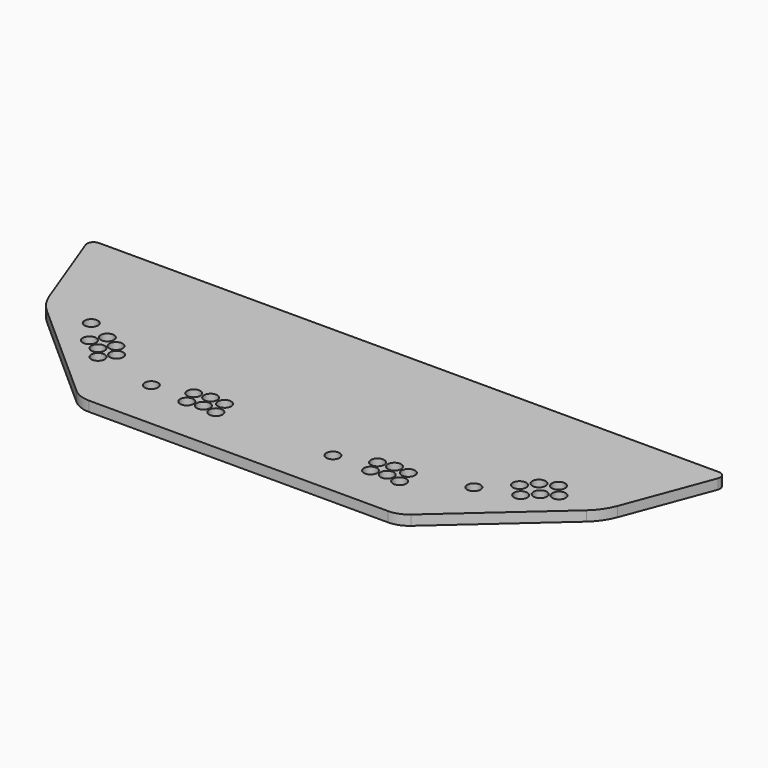
from build123d import *

# Parameters (mm, degrees)
F0_R     = 12.7
F1_DEPTH = 19.05


with BuildPart() as f1:
    # F0 (on Top) → F1 (new body)
    with BuildSketch(Plane.XY):
        with BuildLine():
            ThreePointArc((-319.235557, -190.368393), (-303.539207, -199.883862), (-285.485874, -203.2))
            Line((-285.485874, -203.2), (0, -203.2))
            Line((0, -203.2), (285.485874, -203.2))
            ThreePointArc((285.485874, -203.2), (303.539207, -199.883862), (319.235557, -190.368393))
            Line((319.235557, -190.368393), (514.60022, -16.710915))
            ThreePointArc((514.60022, -16.710915), (530.870973, 1.735635), (542.231899, 23.55173))
            Line((542.231899, 23.55173), (603.165275, 186.040732))
            ThreePointArc((603.165275, 186.040732), (601.712349, 197.733854), (591.273894, 203.2))
            Line((591.273894, 203.2), (0, 203.2))
            Line((0, 203.2), (-591.273894, 203.2))
            ThreePointArc((-591.273894, 203.2), (-601.712349, 197.733854), (-603.165275, 186.040732))
            Line((-603.165275, 186.040732), (-542.231899, 23.55173))
            ThreePointArc((-542.231899, 23.55173), (-530.870973, 1.735635), (-514.60022, -16.710915))
            Line((-514.60022, -16.710915), (-319.235557, -190.368393))
        make_face()
        with Locations((-243.980297, -106.196304)):
            Circle(F0_R, mode=Mode.SUBTRACT)
        with Locations((-169.620782, -114.493974)):
            Circle(F0_R, mode=Mode.SUBTRACT)
        with Locations((-141.879514, -109.519854)):
            Circle(F0_R, mode=Mode.SUBTRACT)
        with Locations((-114.3, -114.3)):
            Circle(F0_R, mode=Mode.SUBTRACT)
        with Locations((-362.868148, -84.697215)):
            Circle(F0_R, mode=Mode.SUBTRACT)
        with Locations((-380.439323, -62.782034)):
            Circle(F0_R, mode=Mode.SUBTRACT)
        with Locations((-406.235443, -50.882532)):
            Circle(F0_R, mode=Mode.SUBTRACT)
        with Locations((-345.5059, -62.057606)):
            Circle(F0_R, mode=Mode.SUBTRACT)
        with Locations((-391.167267, -27.009002)):
            Circle(F0_R, mode=Mode.SUBTRACT)
        with Locations((-363.851682, -40.454379)):
            Circle(F0_R, mode=Mode.SUBTRACT)
        with Locations((-438.956249, -5.684706)):
            Circle(F0_R, mode=Mode.SUBTRACT)
        with Locations((-178.043097, -87.39581)):
            Circle(F0_R, mode=Mode.SUBTRACT)
        with Locations((-120.951831, -85.251503)):
            Circle(F0_R, mode=Mode.SUBTRACT)
        with Locations((-149.743497, -82.378559)):
            Circle(F0_R, mode=Mode.SUBTRACT)
        with Locations((109.067972, -114.3)):
            Circle(F0_R, mode=Mode.SUBTRACT)
        with Locations((183.427486, -117.36752)):
            Circle(F0_R, mode=Mode.SUBTRACT)
        with Locations((211.168754, -112.393401)):
            Circle(F0_R, mode=Mode.SUBTRACT)
        with Locations((238.748268, -117.173546)):
            Circle(F0_R, mode=Mode.SUBTRACT)
        with Locations((175.005171, -90.269356)):
            Circle(F0_R, mode=Mode.SUBTRACT)
        with Locations((203.304771, -85.252105)):
            Circle(F0_R, mode=Mode.SUBTRACT)
        with Locations((232.096437, -88.125049)):
            Circle(F0_R, mode=Mode.SUBTRACT)
        with Locations((337.204658, -63.369095)):
            Circle(F0_R, mode=Mode.SUBTRACT)
        with Locations((407.530174, -39.484102)):
            Circle(F0_R, mode=Mode.SUBTRACT)
        with Locations((386.063956, -15.425373)):
            Circle(F0_R, mode=Mode.SUBTRACT)
        with Locations((428.40571, -19.073795)):
            Circle(F0_R, mode=Mode.SUBTRACT)
        with Locations((453.014644, -4.854658)):
            Circle(F0_R, mode=Mode.SUBTRACT)
        with Locations((405.353936, 6.707779)):
            Circle(F0_R, mode=Mode.SUBTRACT)
        with Locations((432.721214, 19.209756)):
            Circle(F0_R, mode=Mode.SUBTRACT)
    extrude(amount=F1_DEPTH)


solid = f1.part
